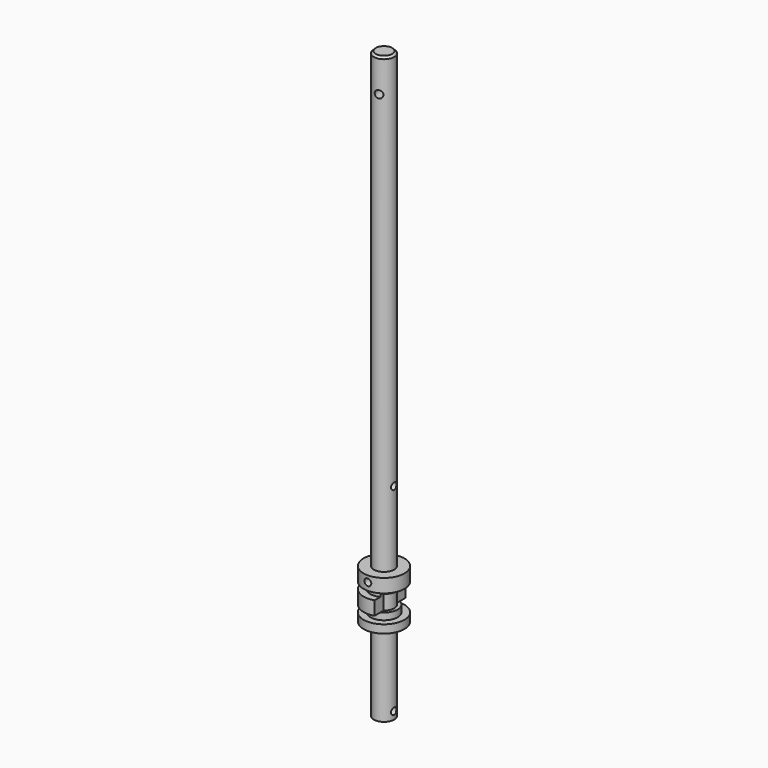
from build123d import *

# Parameters (mm, degrees)
F0_W      = 1.5
F0_H      = 86
F2_SIZE2  = 0.3
F2_SIZE   = 0.3
F4_R      = 0.55
F5_DEPTH  = 4
F7_R      = 0.49
F8_DEPTH  = 2
F11_W     = 2.1
F11_H     = 2.4
F12_DEPTH = 3
F6_R      = 0.5
F13_DEPTH = 3
F14_R     = 0.5
F15_DEPTH = 2.5


with BuildPart() as f1:
    # F0 (on Front) → F1 (revolve)
    with BuildSketch(Plane.XZ):
        with Locations((-0.75, 43)):
            Rectangle(F0_W, F0_H)
    revolve(axis=Axis((0, 0, 43), (0, 0, -1)))

    # F2
    f2_edges = [f1.edges().sort_by_distance(p)[0] for p in [
        (1.5, 0, 86),
    ]]
    chamfer(f2_edges, length=F2_SIZE, length2=F2_SIZE2)

    # F4 (on face) → F5 (cut, symmetric)
    with BuildSketch(Plane(origin=(0, 0, 0), x_dir=(-0.9659258263, -0.2588190451, 0), z_dir=(-0.2588190451, 0.9659258263, 0))):
        with Locations((0, 81.1)):
            Circle(F4_R)
    extrude(amount=F5_DEPTH, both=True, mode=Mode.SUBTRACT)

    # F7 (on Right) → F8 (cut, symmetric)
    with BuildSketch(Plane.YZ):
        with Locations((0, 1.1)):
            Circle(F7_R)
    extrude(amount=F8_DEPTH, both=True, mode=Mode.SUBTRACT)


with BuildPart() as f10:
    # F9 (on Front) → F10 (revolve)
    with BuildSketch(Plane.XZ):
        Polygon((-3, 12.2), (-1.5, 12.2), (-1.5, 19.4), (-3, 19.4), (-3, 17.4), (-2, 17.4), (-2, 16.4), (-3, 16.4), (-3, 14.4), (-2, 14.4), (-2, 13.4), (-3, 13.4), align=None)
    revolve(axis=Axis((0, 0, 86), (0, 0, -1)))

    # F11 (on Front) → F12 (cut, symmetric)
    with BuildSketch(Plane.XZ):
        with Locations((1.95, 15.6)):
            Rectangle(F11_W, F11_H)
    extrude(amount=F12_DEPTH, both=True, mode=Mode.SUBTRACT)


with BuildPart() as f13_tool:
    # F6 (on Front) → F13 (new body, symmetric)
    with BuildSketch(Plane.XZ):
        with Locations((0, 18.5)):
            Circle(F6_R)
    extrude(amount=F13_DEPTH, both=True)


with BuildPart() as f1_1:
    add(f1.part)

    # F13: cut by f13_tool
    add(f13_tool.part, mode=Mode.SUBTRACT)

    # F14 (on Right) → F15 (cut, symmetric)
    with BuildSketch(Plane.YZ):
        with Locations((0, 30.2)):
            Circle(F14_R)
    extrude(amount=F15_DEPTH, both=True, mode=Mode.SUBTRACT)


with BuildPart() as f10_1:
    add(f10.part)

    # F13: cut by f13_tool
    add(f13_tool.part, mode=Mode.SUBTRACT)


solid = Compound([f1_1.part, f10_1.part])
